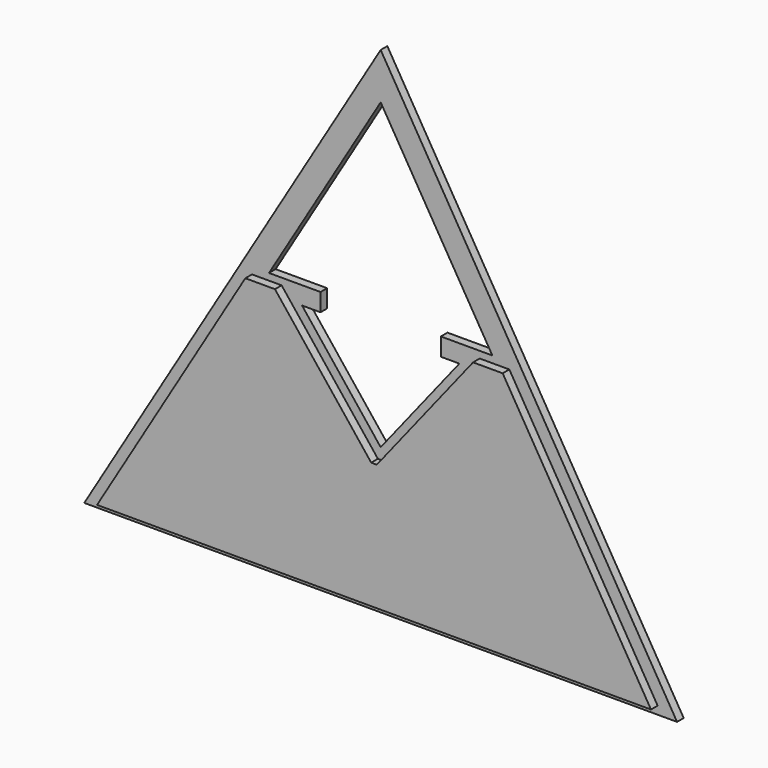
from build123d import *

# Parameters (mm, degrees)
F1_DEPTH = 19.05
F3_DEPTH = 19.05


with BuildPart() as f1:
    # F0 (on Front) → F1 (new body)
    with BuildSketch(Plane.XZ):
        Polygon((1374.183164, -1158.612776), (695.507557, -24.805083), (16.83195, -1158.612776), (695.507557, -1158.612776), align=None)
        Polygon((456.41497, -598.468995), (658.139532, -852.835874), (444.767237, -1114.980936), (106.136329, -1114.980936), (415.310502, -598.468995), align=None, mode=Mode.SUBTRACT)
        Polygon((516.031756, -1114.980936), (695.507557, -894.480448), (874.983359, -1114.980936), (695.507557, -1114.980936), align=None, mode=Mode.SUBTRACT)
        Polygon((946.247878, -1114.980936), (732.875583, -852.835874), (934.600145, -598.468995), (975.704612, -598.468995), (1284.878785, -1114.980936), align=None, mode=Mode.SUBTRACT)
        Polygon((875.649509, -598.468995), (695.507557, -825.621035), (515.365606, -598.468995), (557.809693, -598.468995), (557.809693, -557.562832), (439.796149, -557.562832), (695.507557, -130.366748), (951.218966, -557.562832), (833.205421, -557.562832), (833.205421, -598.468995), align=None, mode=Mode.SUBTRACT)
    extrude(amount=F1_DEPTH)


with BuildPart() as f3:
    # F2 (on face) → F3 (new body)
    with BuildSketch(Plane.XZ.offset(19.05)):
        Polygon((689.118101, -851.021035), (468.689428, -573.068995), (400.91175, -573.068995), (61.329669, -1140.380936), (1329.685446, -1140.380936), (990.103364, -573.068995), (922.325687, -573.068995), (701.897013, -851.021035), align=None)
    extrude(amount=F3_DEPTH)


solid = Compound([f1.part, f3.part])
